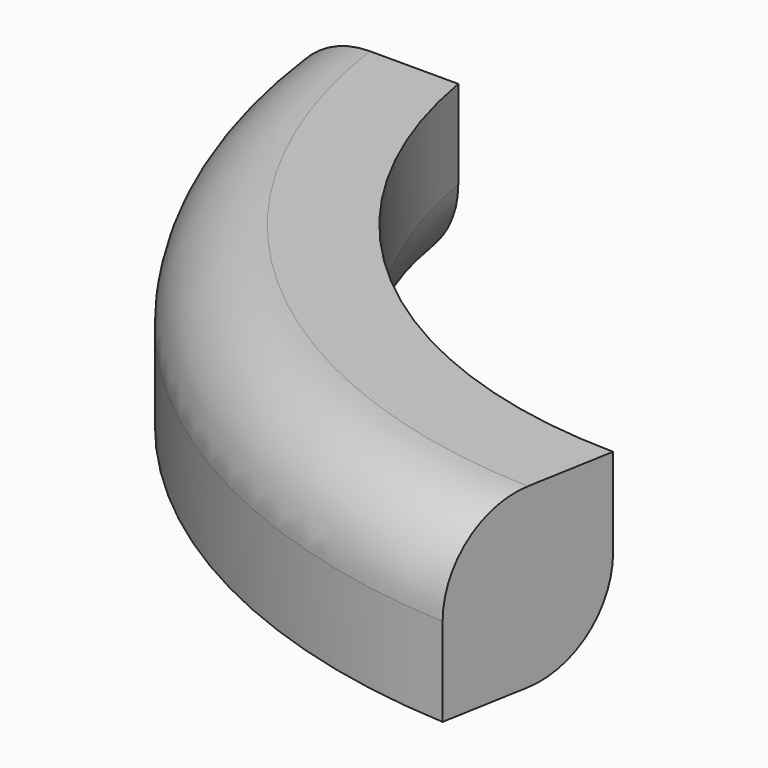
from build123d import *


with BuildPart() as f2:
    # F2: sweep along a path in F1
    with BuildLine(Plane.XY) as f2_path:
        ThreePointArc((0, 0), (50.97265, -92.512826), (149.458185, -130.689174))
    # F0 (on Front) → F2 (sweep)
    with BuildSketch(Plane.XZ):
        with BuildLine():
            Line((-37.605679, -14.395924), (-12.205679, -14.395924))
            ThreePointArc((-12.205679, -14.395924), (5.754834, -6.956437), (13.194321, 11.004076))
            Line((13.194321, 11.004076), (13.194321, 36.404076))
            Line((13.194321, 36.404076), (-12.205679, 36.404076))
            ThreePointArc((-12.205679, 36.404076), (-30.166191, 28.964588), (-37.605679, 11.004076))
            Line((-37.605679, 11.004076), (-37.605679, -14.395924))
        make_face()
    sweep(path=f2_path.line)


solid = f2.part
